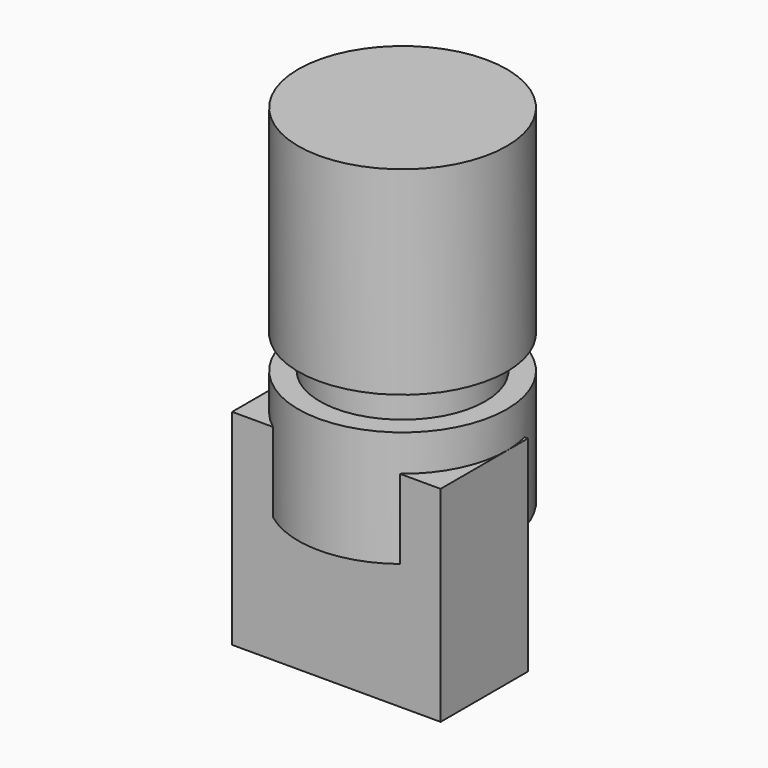
from build123d import *

# Parameters (mm, degrees)
F0_W     = 6.3
F0_H     = 3.3
F1_DEPTH = 6.2
F3_R     = 3.15
F4_DEPTH = 3.5
F5_R     = 2.5
F6_DEPTH = 1
F7_R     = 3.15
F8_DEPTH = 6


with BuildPart() as f1:
    # F0 (on Top) → F1 (new body)
    with BuildSketch(Plane.XY):
        with Locations((0, -0.85)):
            Rectangle(F0_W, F0_H)
    extrude(amount=F1_DEPTH)

    # F3 (on offset) → F4 (join)
    with BuildSketch(Plane.XY.offset(3.8)):
        Circle(F3_R)
    extrude(amount=F4_DEPTH)

    # F5 (on face) → F6 (join)
    with BuildSketch(Plane.XY.offset(7.3)):
        Circle(F5_R)
    extrude(amount=F6_DEPTH)

    # F7 (on face) → F8 (join)
    with BuildSketch(Plane.XY.offset(8.3)):
        Circle(F7_R)
    extrude(amount=F8_DEPTH)


solid = f1.part
